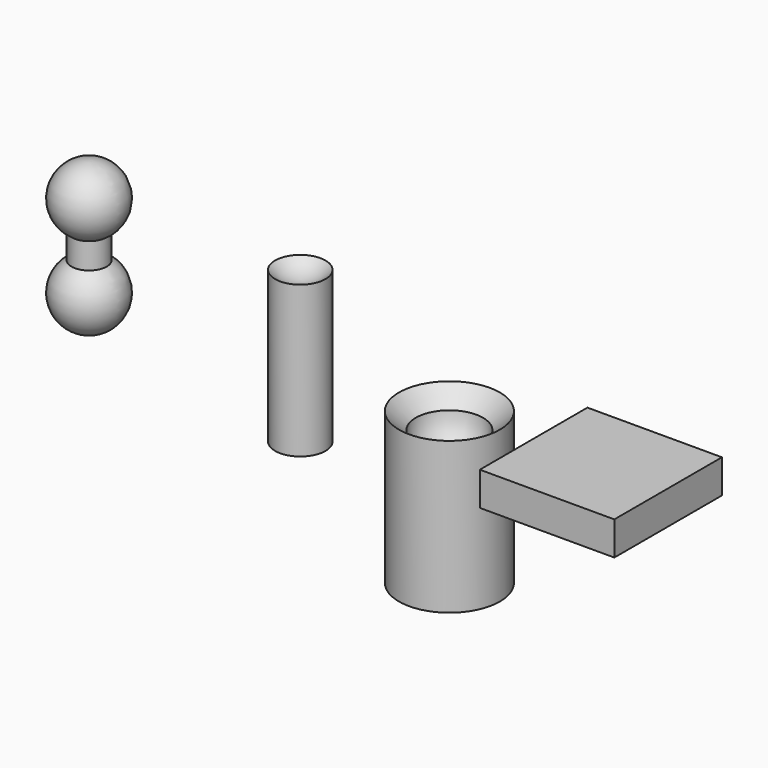
from build123d import *

# Parameters (mm, degrees)
F0_W     = 101.6
F0_H     = 25.4
F1_DEPTH = 101.6


with BuildPart() as f1:
    # F0 (on Front) → F1 (new body)
    with BuildSketch(Plane.XZ):
        with Locations((8.878003, -35.683164)):
            Rectangle(F0_W, F0_H)
    extrude(amount=F1_DEPTH)


with BuildPart() as f3:
    # F2 (on Front) → F3 (revolve)
    with BuildSketch(Plane.XZ):
        with BuildLine():
            ThreePointArc((-239.784222, -1.868043), (-248.383701, -8.218043), (-258.834222, -10.467522))
            Line((-258.834222, -10.467522), (-258.834222, -67.617522))
            Line((-258.834222, -67.617522), (-258.834222, -107.568564))
            ThreePointArc((-258.834222, -107.568564), (-248.383701, -109.818043), (-239.784222, -116.168043))
            Line((-239.784222, -116.168043), (-239.784222, -1.868043))
        make_face()
    revolve(axis=Axis((-258.834222, 0, -35.867522), (0, 0, -1)))


with BuildPart() as f5:
    # F4 (on Front) → F5 (revolve)
    with BuildSketch(Plane.XZ):
        with BuildLine():
            Line((-418.36825, 19.199955), (-418.36825, -94.360235))
            ThreePointArc((-418.36825, -94.360235), (-393.928592, -75.87855), (-405.054764, -47.328982))
            Line((-405.054764, -47.328982), (-405.054764, -27.831297))
            ThreePointArc((-405.054764, -27.831297), (-393.928592, 0.718271), (-418.36825, 19.199955))
        make_face()
    revolve(axis=Axis((-418.36825, 0, -40.279704), (0, 0, 1)))


with BuildPart() as f7:
    # F6 (on Front) → F7 (revolve)
    with BuildSketch(Plane.XZ):
        with BuildLine():
            Line((-146.193306, -97.300895), (-146.193306, -173.500895))
            Line((-146.193306, -173.500895), (-120.793306, -173.500895))
            Line((-120.793306, -173.500895), (-108.093306, -173.500895))
            Line((-108.093306, -173.500895), (-108.093306, -69.411388))
            Line((-108.093306, -69.411388), (-108.093306, -59.200895))
            Line((-108.093306, -59.200895), (-120.793306, -71.900895))
            ThreePointArc((-120.793306, -71.900895), (-128.232793, -89.861407), (-146.193306, -97.300895))
        make_face()
    revolve(axis=Axis((-146.193306, 0, -141.229197), (0, 0, -1)))


solid = Compound([f1.part, f3.part, f5.part, f7.part])
